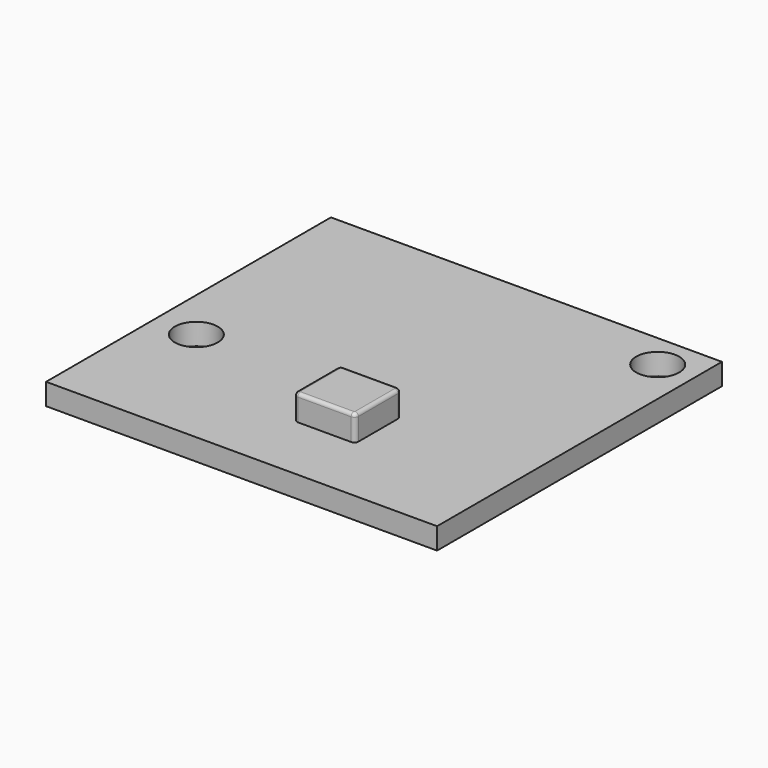
from build123d import *

# Parameters (mm, degrees)
F0_W     = 29.1
F0_H     = 26.5
F0_R     = 1.6
F1_DEPTH = 1.6
F2_DEPTH = 3.5
F3_R     = 0.25


with BuildPart() as f1:
    # F0 (on Top) → F1 (new body)
    with BuildSketch(Plane.XY):
        Rectangle(F0_W, F0_H)
        with Locations((-11.45, -3.15)):
            Circle(F0_R, mode=Mode.SUBTRACT)
        with BuildLine():
            ThreePointArc((4.3321857128, -7.7934560769), (4.2443177472, -8.0055881112), (4.0321857128, -8.0934560769))
            Line((4.0321857128, -8.0934560769), (0.0678142872, -8.0934560769))
            ThreePointArc((0.0678142872, -8.0934560769), (-0.1443177472, -8.0055881112), (-0.2321857128, -7.7934560769))
            Line((-0.2321857128, -7.7934560769), (-0.2321857128, -4.1065439231))
            ThreePointArc((-0.2321857128, -4.1065439231), (-0.1443177472, -3.8944118888), (0.0678142872, -3.8065439231))
            Line((0.0678142872, -3.8065439231), (4.0321857128, -3.8065439231))
            ThreePointArc((4.0321857128, -3.8065439231), (4.2443177472, -3.8944118888), (4.3321857128, -4.1065439231))
            Line((4.3321857128, -4.1065439231), (4.3321857128, -7.7934560769))
        make_face(mode=Mode.SUBTRACT)
        with Locations((11.85, 10.65)):
            Circle(F0_R, mode=Mode.SUBTRACT)
        with BuildLine():
            Line((0.0678142872, -8.0934560769), (4.0321857128, -8.0934560769))
            ThreePointArc((4.0321857128, -8.0934560769), (4.2443177472, -8.0055881112), (4.3321857128, -7.7934560769))
            Line((4.3321857128, -7.7934560769), (4.3321857128, -4.1065439231))
            ThreePointArc((4.3321857128, -4.1065439231), (4.2443177472, -3.8944118888), (4.0321857128, -3.8065439231))
            Line((4.0321857128, -3.8065439231), (0.0678142872, -3.8065439231))
            ThreePointArc((0.0678142872, -3.8065439231), (-0.1443177472, -3.8944118888), (-0.2321857128, -4.1065439231))
            Line((-0.2321857128, -4.1065439231), (-0.2321857128, -7.7934560769))
            ThreePointArc((-0.2321857128, -7.7934560769), (-0.1443177472, -8.0055881112), (0.0678142872, -8.0934560769))
        make_face()
    extrude(amount=F1_DEPTH)


with BuildPart() as f2:
    # F0 (on Top) → F2 (new body)
    with BuildSketch(Plane.XY):
        with BuildLine():
            Line((0.0678142872, -8.0934560769), (4.0321857128, -8.0934560769))
            ThreePointArc((4.0321857128, -8.0934560769), (4.2443177472, -8.0055881112), (4.3321857128, -7.7934560769))
            Line((4.3321857128, -7.7934560769), (4.3321857128, -4.1065439231))
            ThreePointArc((4.3321857128, -4.1065439231), (4.2443177472, -3.8944118888), (4.0321857128, -3.8065439231))
            Line((4.0321857128, -3.8065439231), (0.0678142872, -3.8065439231))
            ThreePointArc((0.0678142872, -3.8065439231), (-0.1443177472, -3.8944118888), (-0.2321857128, -4.1065439231))
            Line((-0.2321857128, -4.1065439231), (-0.2321857128, -7.7934560769))
            ThreePointArc((-0.2321857128, -7.7934560769), (-0.1443177472, -8.0055881112), (0.0678142872, -8.0934560769))
        make_face()
    extrude(amount=F2_DEPTH)

    # F3
    f3_edges = [f2.edges().sort_by_distance(p)[0] for p in [
        (-0.144318, -8.005588, 3.5),
        (2.05, -8.093456, 3.5),
        (4.244318, -8.005588, 3.5),
        (4.332186, -5.95, 3.5),
        (4.244318, -3.894412, 3.5),
        (2.05, -3.806544, 3.5),
        (-0.144318, -3.894412, 3.5),
        (-0.232186, -5.95, 3.5),
    ]]
    fillet(f3_edges, radius=F3_R)


solid = Compound([f1.part, f2.part])
